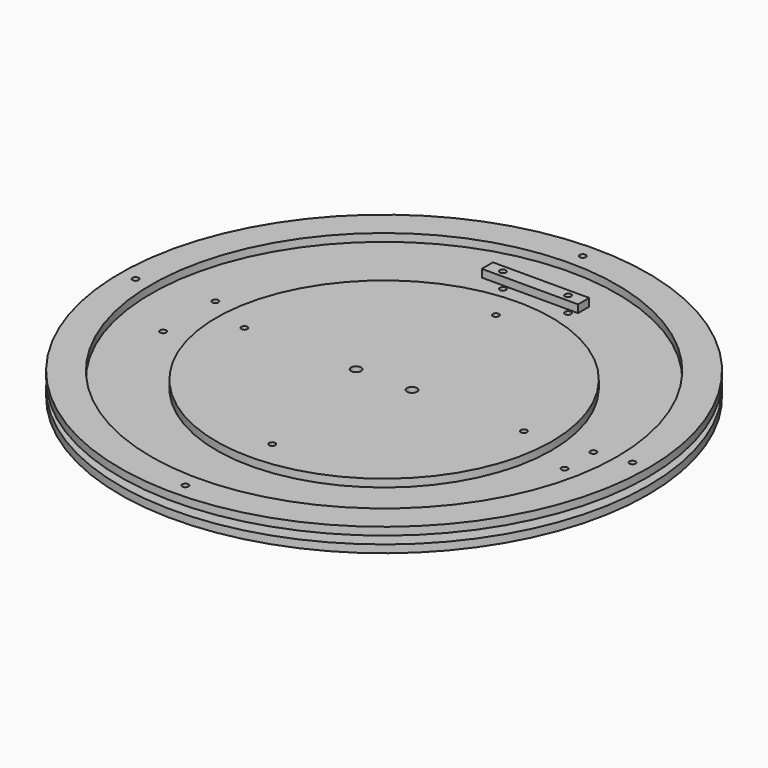
from build123d import *

# Parameters (mm, degrees)
SKETCH001_R   = 170
SKETCH001_R_2 = 2
PAD001_DEPTH  = 5
SKETCH002_R   = 108
SKETCH002_R_2 = 2
SKETCH002_R_3 = 3.25
PAD002_DEPTH  = 5
SKETCH_R      = 170
SKETCH_R_2    = 150
SKETCH_R_3    = 2
PAD_DEPTH     = 5
SKETCH003_W   = 62
SKETCH003_H   = 9
SKETCH003_R   = 2
PAD003_DEPTH  = 5


with BuildPart() as bottom:
    # Sketch001 → Pad001 (new body)
    with BuildSketch(Plane.XY):
        Circle(SKETCH001_R)
        with Locations((0, 160)):
            Circle(SKETCH001_R_2, mode=Mode.SUBTRACT)
        with Locations((160, 0)):
            Circle(SKETCH001_R_2, mode=Mode.SUBTRACT)
        with Locations((-160, 0)):
            Circle(SKETCH001_R_2, mode=Mode.SUBTRACT)
        with Locations((0, -160)):
            Circle(SKETCH001_R_2, mode=Mode.SUBTRACT)
        with Locations((0, 90)):
            Circle(SKETCH001_R_2, mode=Mode.SUBTRACT)
        with Locations((90, 0)):
            Circle(SKETCH001_R_2, mode=Mode.SUBTRACT)
        with Locations((0, -90)):
            Circle(SKETCH001_R_2, mode=Mode.SUBTRACT)
        with Locations((-90, 0)):
            Circle(SKETCH001_R_2, mode=Mode.SUBTRACT)
        with Locations((-21, 121.9)):
            Circle(SKETCH001_R_2, mode=Mode.SUBTRACT)
        with Locations((21, 121.9)):
            Circle(SKETCH001_R_2, mode=Mode.SUBTRACT)
        with Locations((-125.5, -21)):
            Circle(SKETCH001_R_2, mode=Mode.SUBTRACT)
        with Locations((125.5, 11.602159)):
            Circle(SKETCH001_R_2, mode=Mode.SUBTRACT)
        with Locations((125.5, -11.602159)):
            Circle(SKETCH001_R_2, mode=Mode.SUBTRACT)
        with Locations((-125.5, 21)):
            Circle(SKETCH001_R_2, mode=Mode.SUBTRACT)
    extrude(amount=PAD001_DEPTH)


with BuildPart() as disk:
    # Sketch002 → Pad002 (new body)
    with BuildSketch(Plane.XY):
        Circle(SKETCH002_R)
        with Locations((0, 90)):
            Circle(SKETCH002_R_2, mode=Mode.SUBTRACT)
        with Locations((-90, 0)):
            Circle(SKETCH002_R_2, mode=Mode.SUBTRACT)
        with Locations((0, -90)):
            Circle(SKETCH002_R_2, mode=Mode.SUBTRACT)
        with Locations((90, 0)):
            Circle(SKETCH002_R_2, mode=Mode.SUBTRACT)
        with Locations((-18, 0)):
            Circle(SKETCH002_R_3, mode=Mode.SUBTRACT)
        with Locations((18, 0)):
            Circle(SKETCH002_R_3, mode=Mode.SUBTRACT)
    extrude(amount=PAD002_DEPTH)


with BuildPart() as disk_1:
    # Body002 placement: moved
    add(disk.part.moved(Location((0, 0, 5))))


with BuildPart() as body004:
    # Sketch → Pad (new body)
    with BuildSketch(Plane.XY):
        Circle(SKETCH_R)
        Circle(SKETCH_R_2, mode=Mode.SUBTRACT)
        with Locations((0, 160)):
            Circle(SKETCH_R_3, mode=Mode.SUBTRACT)
        with Locations((160, 0)):
            Circle(SKETCH_R_3, mode=Mode.SUBTRACT)
        with Locations((0, -160)):
            Circle(SKETCH_R_3, mode=Mode.SUBTRACT)
        with Locations((-160, 0)):
            Circle(SKETCH_R_3, mode=Mode.SUBTRACT)
    extrude(amount=PAD_DEPTH)


with BuildPart() as body004_1:
    # Body placement: moved
    add(body004.part.moved(Location((0, 0, 5))))


with BuildPart() as body004_2:
    # Clone001 placement: moved
    add(body004_1.part.moved(Location((0, 0, 1))))


with BuildPart() as body004_3:
    # Body004 placement: moved
    add(body004_2.part.moved(Location((0, 0, 4))))


with BuildPart() as body007:
    # Sketch003 → Pad003 (new body)
    with BuildSketch(Plane.XY):
        Rectangle(SKETCH003_W, SKETCH003_H)
        with Locations((-21, 0)):
            Circle(SKETCH003_R, mode=Mode.SUBTRACT)
        with Locations((21, 0)):
            Circle(SKETCH003_R, mode=Mode.SUBTRACT)
    extrude(amount=PAD003_DEPTH)


with BuildPart() as body007_1:
    # Body006 placement: moved
    add(body007.part.moved(Location((0, 121.9, 5))))


with BuildPart() as body007_2:
    # Body007 placement: moved
    add(body007_1.part.moved(Location((0, 0, 5))))


solid = Compound([bottom.part, disk_1.part, body004_3.part, body007_2.part])
